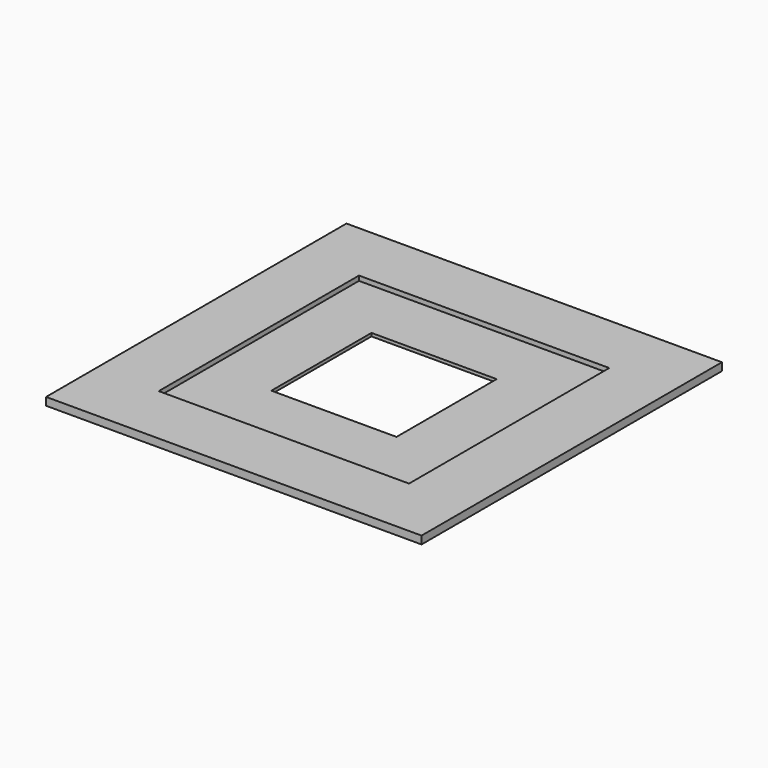
from build123d import *

# Parameters (mm, degrees)
F0_W     = 152.4
F0_H     = 152.4
F0_W_2   = 101.6
F0_H_2   = 101.6
F1_DEPTH = 3.175
F0_W_3   = 50.8
F0_H_3   = 50.8
F2_DEPTH = 1.27


with BuildPart() as f1:
    # F0 (on Top) → F1 (new body)
    with BuildSketch(Plane.XY):
        Rectangle(F0_W, F0_H)
        Rectangle(F0_W_2, F0_H_2, mode=Mode.SUBTRACT)
    extrude(amount=F1_DEPTH)

    # F0 (on Top) → F2 (join)
    with BuildSketch(Plane.XY):
        Rectangle(F0_W_2, F0_H_2)
        Rectangle(F0_W_3, F0_H_3, mode=Mode.SUBTRACT)
    extrude(amount=F2_DEPTH)


solid = f1.part
